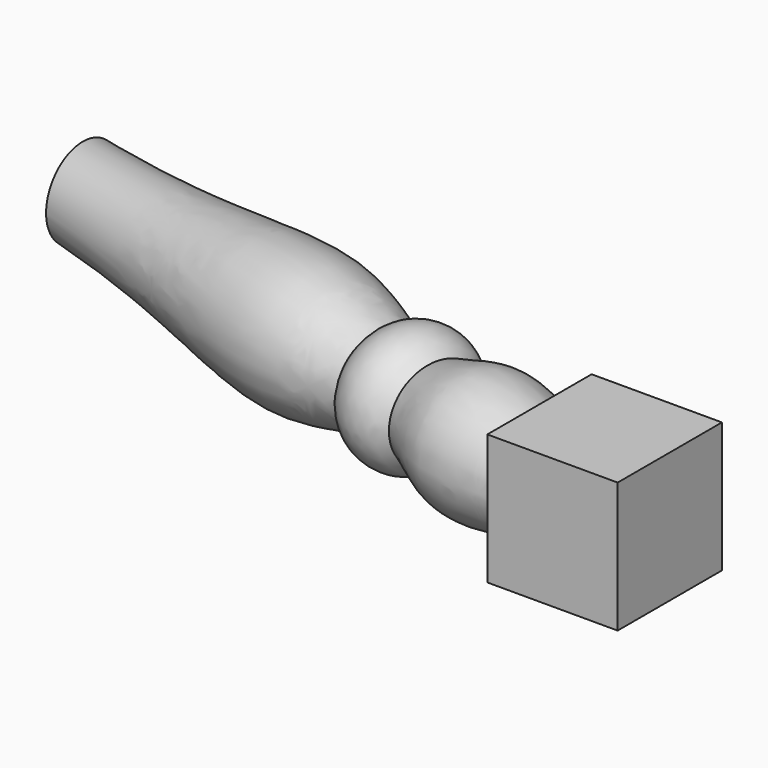
from build123d import *

# Parameters (mm, degrees)
F0_W     = 9.398
F0_H     = 9.398
F1_DEPTH = 4.699
F5_R     = 6.4204248834
F6_DEPTH = 1.8481535467


with BuildPart() as f1:
    # F0 (on Top) → F1 (new body, symmetric)
    with BuildSketch(Plane.XY):
        with Locations((4.699, 4.699)):
            Rectangle(F0_W, F0_H)
    extrude(amount=F1_DEPTH, both=True)

    # F2 (on Top) → F3 (revolve)
    with BuildSketch(Plane.XY):
        with BuildLine():
            Line((2.1089997974, 4.1338952074), (-42.9354029785, 16.2035065548))
            Line((-42.9354029785, 16.2035065548), (-43.7571534467, 13.1366920563))
            add(Edge.make_bspline(
                [(-43.7571534467, 13.1366920563), (-31.4497982907, 9.7613016894), (-24.351204811, 4.7111827292), (-17.0302603516, 5.3395174522), (-15.1165829072, 5.2838661547)],
                knots=[0, 0, 0, 0, 0.3695067748, 0.5217943897, 0.5217943897, 0.5217943897, 0.5217943897], degree=3))
            add(Edge.make_bspline(
                [(-15.1165829072, 5.2838661547), (-14.2199308743, 5.2577907838), (-12.4153866633, 5.090572736), (-10.9454237567, 4.3486670485), (-10.2269043728, 3.911686346)],
                knots=[0.5217943897, 0.5217943897, 0.5217943897, 0.5217943897, 0.5931486296, 0.6736895744, 0.6736895744, 0.6736895744, 0.6736895744], degree=3))
            add(Edge.make_bspline(
                [(-10.2269043728, 3.911686346), (-9.3735957348, 3.3927310938), (-6.755614661, 1.4125647276), (-4.4911950827, 1.0167984292), (1.2996370206, 1.1133122025)],
                knots=[0.6736895744, 0.6736895744, 0.6736895744, 0.6736895744, 0.769339442, 1, 1, 1, 1], degree=3))
            Line((1.2996370206, 1.1133122025), (2.1089997974, 4.1338952074))
        make_face()
        with BuildLine():
            add(Edge.make_bspline(
                [(-15.1165829072, 5.2838661547), (-14.2199308743, 5.2577907838), (-12.4153866633, 5.090572736), (-10.9454237567, 4.3486670485), (-10.2269043728, 3.911686346)],
                knots=[0.5217943897, 0.5217943897, 0.5217943897, 0.5217943897, 0.5931486296, 0.6736895744, 0.6736895744, 0.6736895744, 0.6736895744], degree=3))
            ThreePointArc((-15.1165829072, 5.2838661547), (-12.9898277475, 3.4643030547), (-10.2269043728, 3.911686346))
        make_face()
    revolve(axis=Axis((-20.4132015906, 10.1687008811, 0), (0.9659258263, -0.2588190451, 0)))

    # F5 (on offset) → F6 (cut, through all)
    with BuildSketch(Plane.YZ.offset(-41.91)):
        with Locations((16.1998961121, 0)):
            Circle(F5_R)
    extrude(amount=-F6_DEPTH, mode=Mode.SUBTRACT)


solid = f1.part
